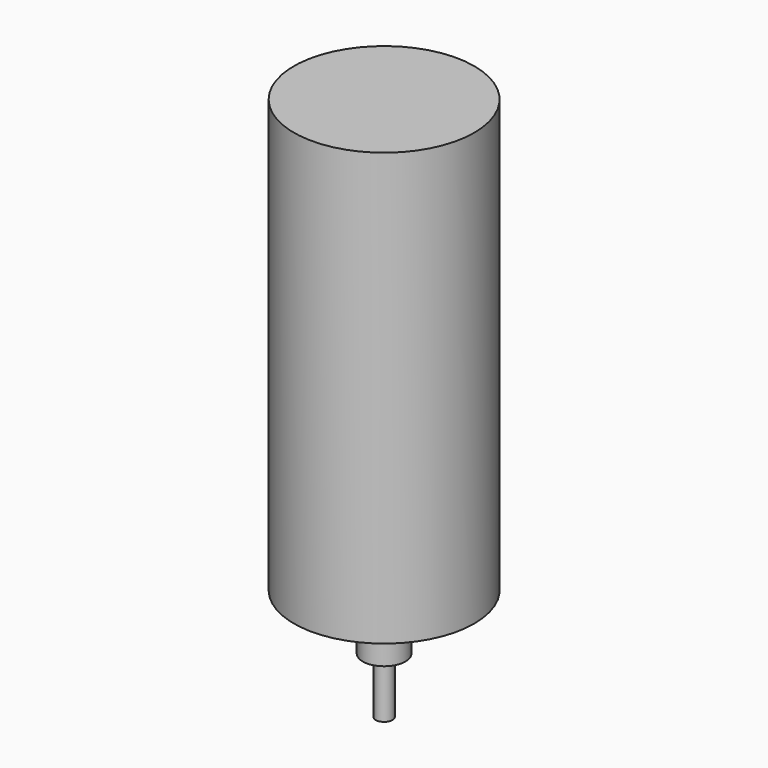
from build123d import *

# Parameters (mm, degrees)
SKETCH_R     = 32.35
PAD_DEPTH    = 155
SKETCH001_R  = 7.670612
PAD001_DEPTH = 20
SKETCH002_R  = 3
PAD002_DEPTH = 20


with BuildPart() as part:
    # Sketch → Pad (new body)
    with BuildSketch(Plane.XY):
        Circle(SKETCH_R)
    extrude(amount=PAD_DEPTH)

    # Sketch001 (on Face2 of Pad) → Pad001 (join)
    with BuildSketch(Plane(origin=(0, 0, 0), x_dir=(1, 0, 0), z_dir=(0, 0, -1))):
        Circle(SKETCH001_R)
    extrude(amount=PAD001_DEPTH)

    # Sketch002 (on Face5 of Pad001) → Pad002 (join)
    with BuildSketch(Plane(origin=(0, 0, -20), x_dir=(1, 0, 0), z_dir=(0, 0, -1))):
        Circle(SKETCH002_R)
    extrude(amount=PAD002_DEPTH)


with BuildPart() as part_1:
    # Body placement: moved
    add(part.part.moved(Location((0, -119.55, 40))))


solid = part_1.part
